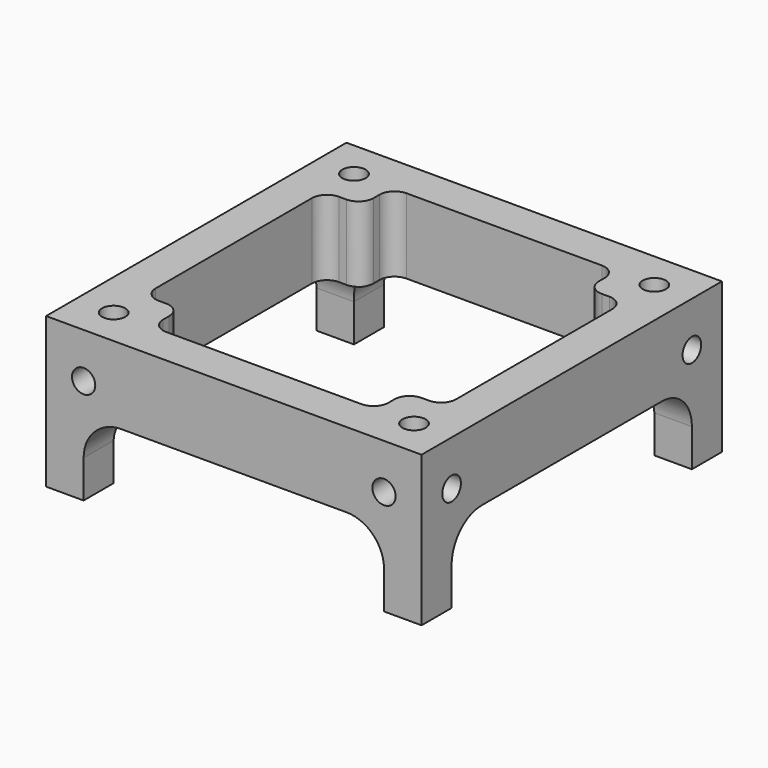
from build123d import *

# Parameters (mm, degrees)
SKETCH159_W             = 50
SKETCH159_H             = 50
PAD027_DEPTH            = 20
POCKET133_DEPTH         = 20.001
POCKET134_DEPTH         = 50.001
POCKET135_DEPTH         = 50.001
SKETCH163_R             = 1.55
POCKET136_DEPTH         = 5
SKETCH164_R             = 1.55
POCKET137_DEPTH         = 3
SKETCH165_R             = 1.55
POCKET138_DEPTH         = 3
BODY028_PLACEMENT_ANGLE = 90


with BuildPart() as part:
    # Sketch159 → Pad027 (new body)
    with BuildSketch(Plane.XY):
        Rectangle(SKETCH159_W, SKETCH159_H)
    extrude(amount=PAD027_DEPTH)

    # Sketch160 (on Face6 of Pad027) → Pocket133 (cut, through all)
    with BuildSketch(Plane.XY.offset(20)):
        with BuildLine():
            Line((-18, 15), (-17, 15))
            ThreePointArc((-17, 15), (-15.585786, 15.585786), (-15, 17))
            Line((-15, 17), (-15, 18))
            ThreePointArc((-13, 20), (-14.414214, 19.414214), (-15, 18))
            Line((-13, 20), (13, 20))
            ThreePointArc((15, 18), (14.414214, 19.414214), (13, 20))
            Line((15, 18), (15, 17))
            ThreePointArc((15, 17), (15.585786, 15.585786), (17, 15))
            Line((17, 15), (18, 15))
            ThreePointArc((20, 13), (19.414214, 14.414214), (18, 15))
            Line((20, 13), (20, -13))
            ThreePointArc((18, -15), (19.414214, -14.414214), (20, -13))
            Line((18, -15), (17, -15))
            ThreePointArc((17, -15), (15.585786, -15.585786), (15, -17))
            Line((15, -17), (15, -18))
            ThreePointArc((13, -20), (14.414214, -19.414214), (15, -18))
            Line((13, -20), (-13, -20))
            ThreePointArc((-15, -18), (-14.414214, -19.414214), (-13, -20))
            Line((-15, -18), (-15, -17))
            ThreePointArc((-15, -17), (-15.585786, -15.585786), (-17, -15))
            Line((-17, -15), (-18, -15))
            ThreePointArc((-20, -13), (-19.414214, -14.414214), (-18, -15))
            Line((-20, -13), (-20, 13))
            ThreePointArc((-18, 15), (-19.414214, 14.414214), (-20, 13))
        make_face()
    extrude(amount=-POCKET133_DEPTH, mode=Mode.SUBTRACT)

    # Sketch161 (on Face3 of Pocket133) → Pocket134 (cut, through all)
    with BuildSketch(Plane.YZ.offset(25)):
        with BuildLine():
            Line((-15, 10), (15, 10))
            ThreePointArc((20, 5), (18.535534, 8.535534), (15, 10))
            Line((20, 5), (20, 0))
            Line((20, 0), (-20, 0))
            Line((-20, 0), (-20, 5))
            ThreePointArc((-15, 10), (-18.535534, 8.535534), (-20, 5))
        make_face()
    extrude(amount=-POCKET134_DEPTH, mode=Mode.SUBTRACT)

    # Sketch162 (on Face6 of Pocket133) → Pocket135 (cut, through all)
    with BuildSketch(Plane.XZ.offset(25)):
        with BuildLine():
            Line((-15, 10), (15, 10))
            ThreePointArc((20, 5), (18.535534, 8.535534), (15, 10))
            Line((20, 5), (20, 0))
            Line((20, 0), (-20, 0))
            Line((-20, 0), (-20, 5))
            ThreePointArc((-15, 10), (-18.535534, 8.535534), (-20, 5))
        make_face()
    extrude(amount=-POCKET135_DEPTH, mode=Mode.SUBTRACT)

    # Sketch163 → Pocket136 (cut)
    with BuildSketch(Plane.XY.offset(20)):
        with Locations((-20, 20)):
            Circle(SKETCH163_R)
        with Locations((20, 20)):
            Circle(SKETCH163_R)
        with Locations((20, -20)):
            Circle(SKETCH163_R)
        with Locations((-20, -20)):
            Circle(SKETCH163_R)
    extrude(amount=-POCKET136_DEPTH, mode=Mode.SUBTRACT)

    # Sketch164 (on Face27 of Pocket136) → Pocket137 (cut)
    with BuildSketch(Plane.XZ.offset(25)):
        with Locations((-20, 14)):
            Circle(SKETCH164_R)
        with Locations((20, 14)):
            Circle(SKETCH164_R)
    extrude(amount=-POCKET137_DEPTH, mode=Mode.SUBTRACT)

    # Sketch165 (on Face11 of Pocket137) → Pocket138 (cut)
    with BuildSketch(Plane(origin=(-25, 0, 0), x_dir=(0, -1, 0), z_dir=(-1, 0, 0))):
        with Locations((-20, 14)):
            Circle(SKETCH165_R)
        with Locations((20, 14)):
            Circle(SKETCH165_R)
    extrude(amount=-POCKET138_DEPTH, mode=Mode.SUBTRACT)


with BuildPart() as part_1:
    # Body028 placement: moved
    add(part.part.moved(Location((145, 25, 0))).rotate(Axis((145, 25, 0), (0, 0, 1)), BODY028_PLACEMENT_ANGLE))


solid = part_1.part
